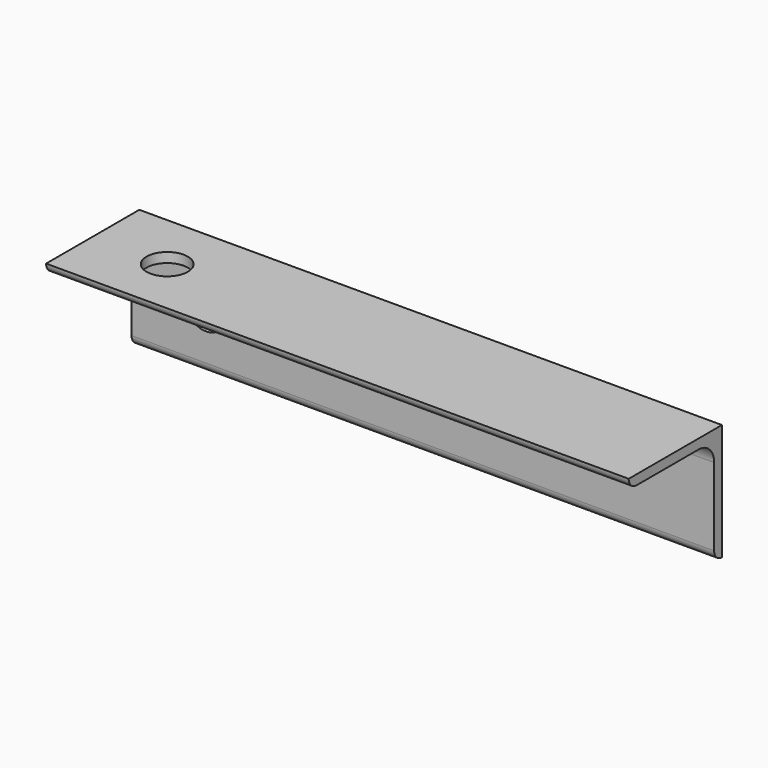
from build123d import *

# Parameters (mm, degrees)
F1_DEPTH = 190.5
F5_D     = 13.49248
F6_D     = 13.49248


with BuildPart() as f1:
    # F0 (on Right) → F1 (new body)
    with BuildSketch(Plane.YZ):
        with BuildLine():
            Line((-0.1024892145, -7.1891873267), (0, -7.1925527072))
            Line((0, -7.1925527072), (0, 30.9074472928))
            Line((0, 30.9074472928), (-38.1, 30.9074472928))
            ThreePointArc((-38.1, 30.9074472928), (-37.1700640303, 28.6623832625), (-34.925, 27.7324472928))
            Line((-34.925, 27.7324472928), (-9.5232896904, 27.7324472928))
            ThreePointArc((-9.5232896904, 27.7324472928), (-5.0331616299, 25.8725753533), (-3.1732896904, 21.3824472928))
            Line((-3.1732896904, 21.3824472928), (-3.1732896904, -4.0158976363))
            ThreePointArc((-3.1732896904, -4.0158976363), (-2.2798964147, -6.223814246), (-0.1024892145, -7.1891873267))
        make_face()
    extrude(amount=F1_DEPTH)


with BuildPart() as f1_1:
    # F2: moved
    add(f1.part.moved(Location((-137.16, 0, 1.524))))

    # F5 (through all)
    with Locations(Plane.XY.offset(32.4314472928)):
        with Locations((-112.8014, -19.05)):
            Hole(F5_D / 2)

    # F6 (through all)
    with Locations(Plane.XZ.offset(3.1732896904)):
        with Locations((-112.8014, 13.3831023637)):
            Hole(F6_D / 2)


solid = f1_1.part
